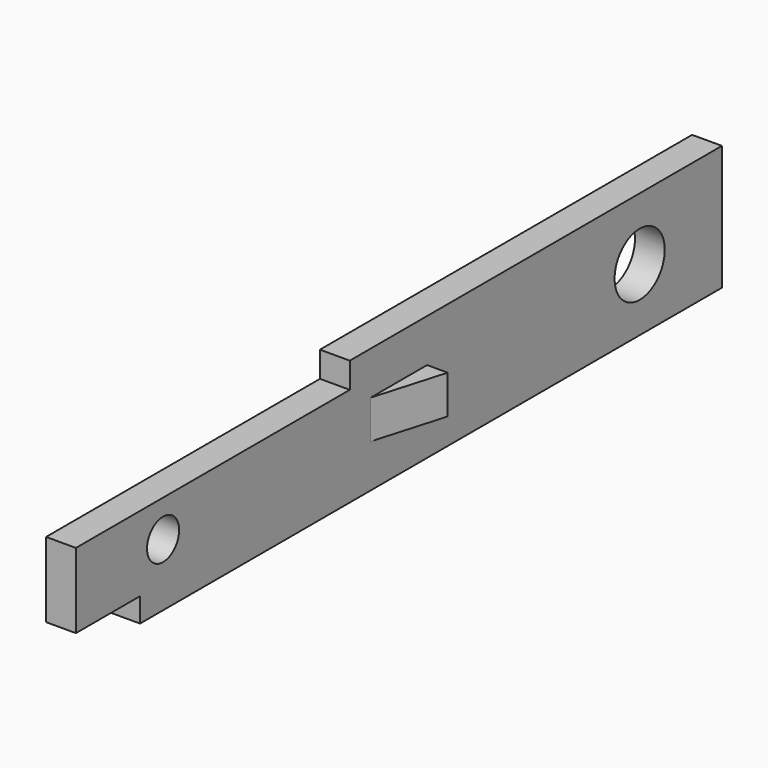
from build123d import *

# Parameters (mm, degrees)
F0_R     = 0.9906
F0_R_2   = 1.5494
F1_DEPTH = 0.7366
F2_W     = 3.4925
F2_H     = 1.905
F3_DEPTH = 1.016
F5_DEPTH = 25.4


with BuildPart() as f1:
    # F0 (on Right) → F1 (new body, symmetric)
    with BuildSketch(Plane.YZ):
        Polygon((19.9517, 3.0861), (-3.0353, 3.0861), (-3.0353, 1.8161), (-19.9517, 1.8161), (-19.9517, -1.8923), (-15.9893, -1.8923), (-15.9893, -3.0861), (19.9517, -3.0861), align=None)
        with Locations((-14.5669, 0)):
            Circle(F0_R, mode=Mode.SUBTRACT)
        with Locations((14.8717, 0)):
            Circle(F0_R_2, mode=Mode.SUBTRACT)
    extrude(amount=F1_DEPTH, both=True)

    # F2 (on face) → F3 (join)
    with BuildSketch(Plane.YZ.offset(0.7366)):
        with Locations((-0.00635, 0)):
            Rectangle(F2_W, F2_H)
    extrude(amount=F3_DEPTH)

    # F4 (on face) → F5 (cut)
    with BuildSketch(Plane(origin=(0, 0, -0.9525), x_dir=(1, 0, 0), z_dir=(0, 0, -1))):
        Polygon((1.7526, 1.7526), (0.7366, 1.7526), (1.7526, -1.7399), align=None)
    extrude(amount=-F5_DEPTH, mode=Mode.SUBTRACT)


solid = f1.part
